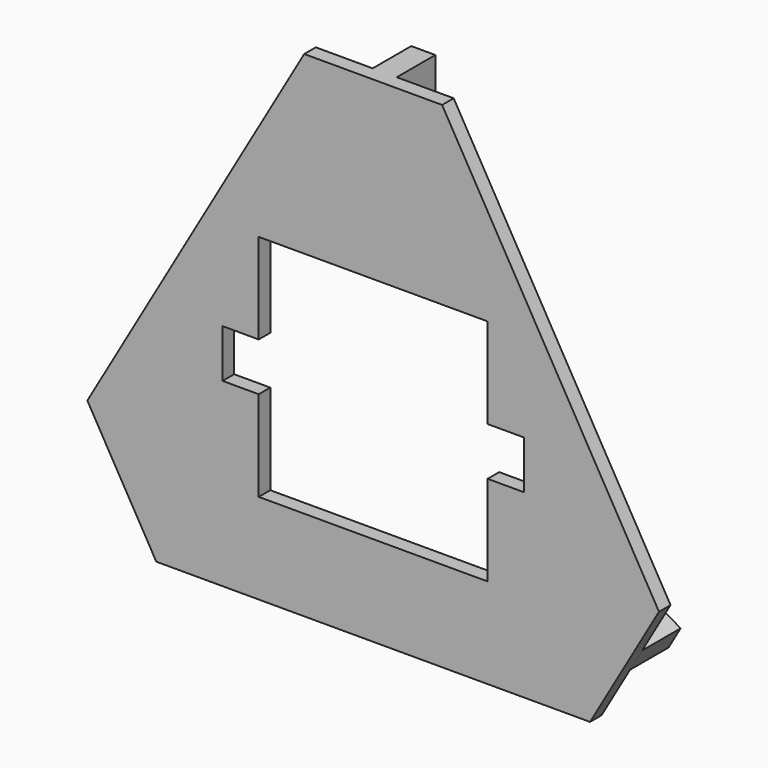
from build123d import *

# Parameters (mm, degrees)
F1_DEPTH       = 6
F3_DEPTH       = 25
F4_W           = 20
F4_H           = 30
F4_R           = 5
F5_DEPTH       = 5
F5_DEPTH_BACK  = 5
F10_W          = 30
F10_H          = 20
F10_R          = 5
F11_DEPTH      = 5
F11_DEPTH_BACK = 5
F16_W          = 30
F16_H          = 20
F16_R          = 5
F17_DEPTH      = 5
F17_DEPTH_BACK = 5


with BuildPart() as f1:
    # F0 (on Front) → F1 (new body)
    with BuildSketch(Plane.XZ):
        Polygon((28.612, 205.4420103874), (-28.612, 205.4420103874), (-118.612, 49.5574377062), (-90, 0), (90, 0), (118.612, 49.5574377062), align=None)
    extrude(amount=-F1_DEPTH)

    # F2 (on Front) → F3 (cut)
    with BuildSketch(Plane.XZ):
        Polygon((47.4997490062, 132.5), (-47.5002509938, 132.5), (-47.5002509938, 95), (-62.5002509938, 95), (-62.5002509938, 75), (-47.5002509938, 75), (-47.5002509938, 37.5), (47.4997490062, 37.5), (47.4997490062, 75), (62.4997490062, 75), (62.4997490062, 95), (47.4997490062, 95), align=None)
    extrude(amount=-F3_DEPTH, mode=Mode.SUBTRACT)

    # F4 (on Right) → F5 (join, two sides)
    with BuildSketch(Plane.YZ) as f5_sk:
        with Locations((16, 190.4420103874)):
            Rectangle(F4_W, F4_H)
        with Locations((16, 190.4420103874)):
            Circle(F4_R, mode=Mode.SUBTRACT)
    extrude(amount=F5_DEPTH)
    extrude(f5_sk.sketch, amount=-F5_DEPTH_BACK)

    # F10 (on 3pt) → F11 (join, two sides)
    with BuildSketch(Plane(origin=(36.806, 0, 63.7498620234), x_dir=(0.8660254038, 0, -0.5), z_dir=(0.5, 0, 0.8660254038))) as f11_sk:
        with Locations((62.9422863406, 16)):
            Rectangle(F10_W, F10_H)
        with Locations((62.9422863406, 16)):
            Circle(F10_R, mode=Mode.SUBTRACT)
    extrude(amount=F11_DEPTH)
    extrude(f11_sk.sketch, amount=-F11_DEPTH_BACK)

    # F16 (on 3pt) → F17 (join, two sides)
    with BuildSketch(Plane(origin=(-36.806, 0, 63.7498620234), x_dir=(0.8660254038, 0, 0.5), z_dir=(0.5, 0, -0.8660254038))) as f17_sk:
        with Locations((-62.9422863406, -16)):
            Rectangle(F16_W, F16_H)
        with Locations((-62.9422863406, -16)):
            Circle(F16_R, mode=Mode.SUBTRACT)
    extrude(amount=F17_DEPTH)
    extrude(f17_sk.sketch, amount=-F17_DEPTH_BACK)


solid = f1.part
